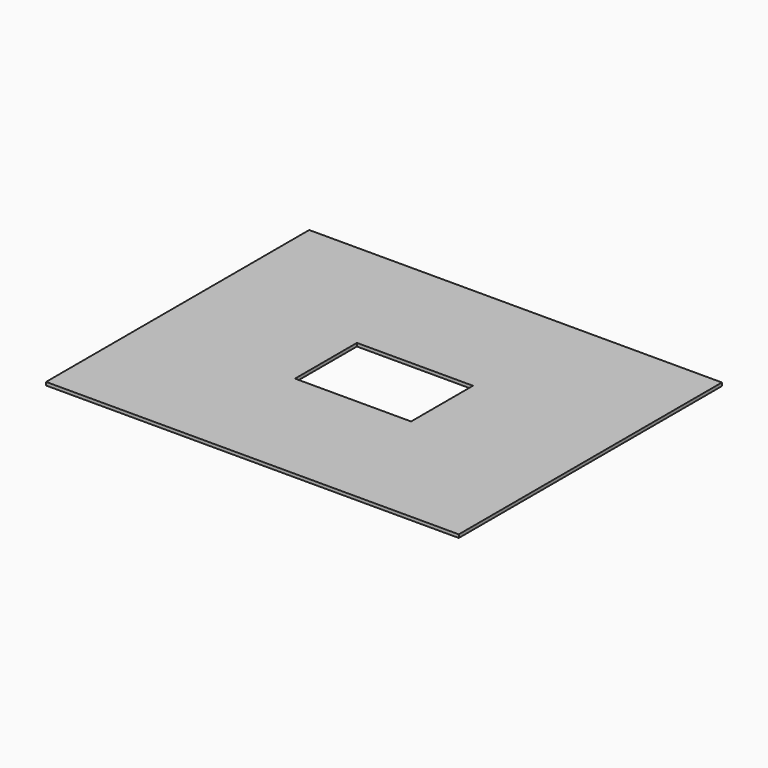
from build123d import *

# Parameters (mm, degrees)
SKETCH_W   = 128
SKETCH_H   = 102
SKETCH_W_2 = 36
SKETCH_H_2 = 24
PAD_DEPTH  = 1


with BuildPart() as part:
    # Sketch → Pad (new body)
    with BuildSketch(Plane.XY):
        Rectangle(SKETCH_W, SKETCH_H)
        Rectangle(SKETCH_W_2, SKETCH_H_2, mode=Mode.SUBTRACT)
    extrude(amount=PAD_DEPTH)


solid = part.part
